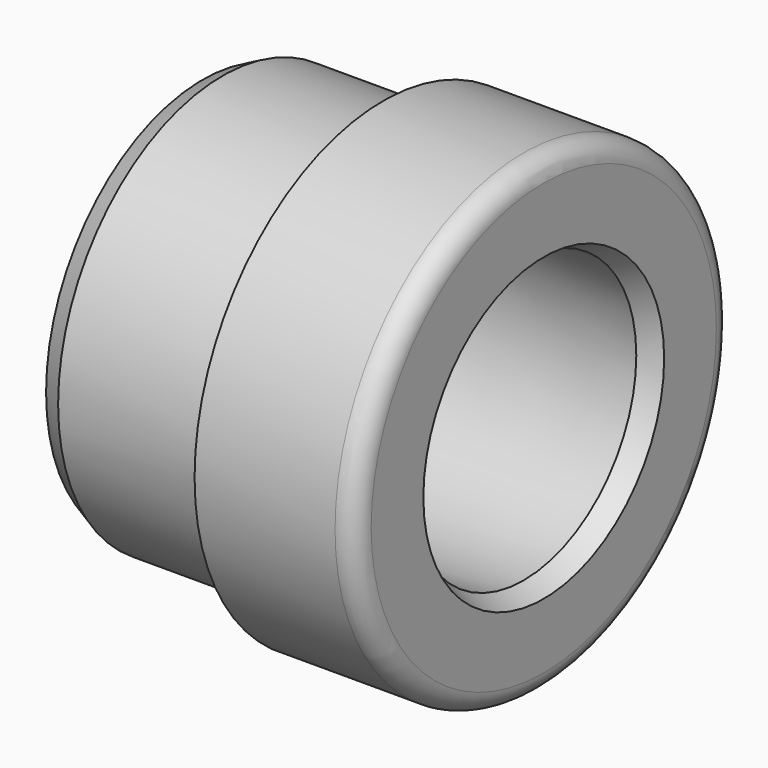
from build123d import *

# Parameters (mm, degrees)
F2_SIZE2 = 1
F2_SIZE  = 0.5
F3_SIZE2 = 0.5
F3_SIZE  = 1
F4_R     = 1


with BuildPart() as f1:
    # F0 (on Top) → F1 (revolve)
    with BuildSketch(Plane.XY):
        Polygon((0, -7), (-17, -7.25), (-17, -10.25), (-8, -10.25), (-8, -11.75), (0, -11.75), align=None)
    revolve(axis=Axis((-8.5, 0, 0), (1, 0, 0)))

    # F2
    f2_edges = [f1.edges().sort_by_distance(p)[0] for p in [
        (-17, 10.25, 0),
    ]]
    chamfer(f2_edges, length=F2_SIZE, length2=F2_SIZE2)

    # F3
    f3_edges = [f1.edges().sort_by_distance(p)[0] for p in [
        (0, 7, 0),
    ]]
    chamfer(f3_edges, length=F3_SIZE, length2=F3_SIZE2)

    # F4
    f4_edges = [f1.edges().sort_by_distance(p)[0] for p in [
        (0, 11.75, 0),
    ]]
    fillet(f4_edges, radius=F4_R)


solid = f1.part
